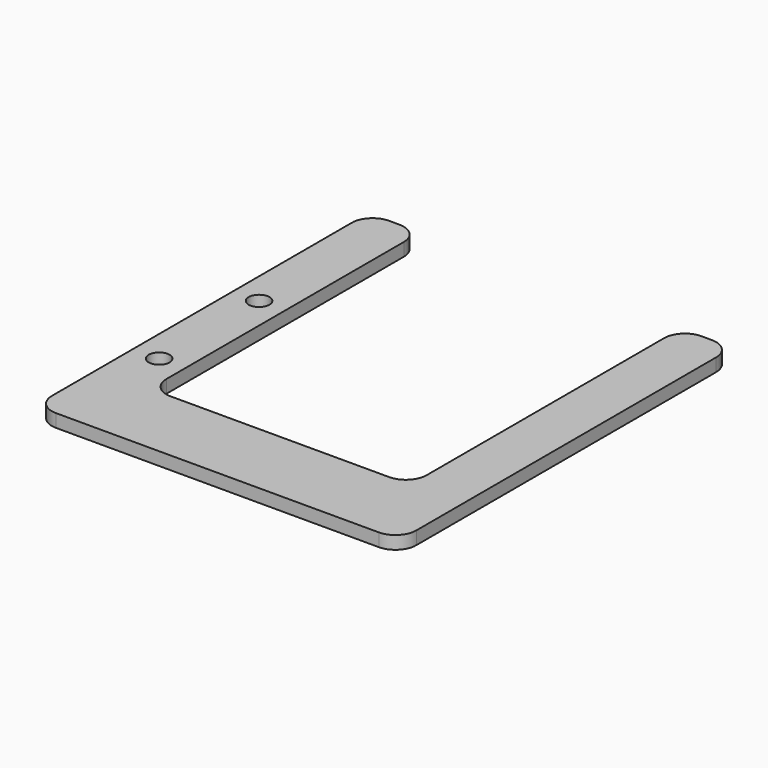
from build123d import *

# Parameters (mm, degrees)
F0_R     = 2.54
F2_DEPTH = 3.175


with BuildPart() as f2:
    # F0 (on Top) → F2 (new body)
    with BuildSketch(Plane.XY):
        with BuildLine():
            Line((-68.58, 71.755), (-71.12, 71.755))
            ThreePointArc((-71.12, 71.755), (-74.712102, 70.267102), (-76.2, 66.675))
            Line((-76.2, 66.675), (-76.2, -10.795))
            Line((-76.2, -10.795), (-76.2, -24.765))
            ThreePointArc((-76.2, -24.765), (-74.712102, -28.357102), (-71.12, -29.845))
            Line((-71.12, -29.845), (7.62, -29.845))
            ThreePointArc((7.62, -29.845), (11.212102, -28.357102), (12.7, -24.765))
            Line((12.7, -24.765), (12.7, -10.795))
            Line((12.7, -10.795), (12.7, 66.675))
            ThreePointArc((12.7, 66.675), (11.212102, 70.267102), (7.62, 71.755))
            Line((7.62, 71.755), (5.08, 71.755))
            ThreePointArc((5.08, 71.755), (1.487898, 70.267102), (0, 66.675))
            Line((0, 66.675), (0, -5.715))
            ThreePointArc((0, -5.715), (-1.487898, -9.307102), (-5.08, -10.795))
            Line((-5.08, -10.795), (-58.42, -10.795))
            ThreePointArc((-58.42, -10.795), (-62.012102, -9.307102), (-63.5, -5.715))
            Line((-63.5, -5.715), (-63.5, 66.675))
            ThreePointArc((-63.5, 66.675), (-64.987898, 70.267102), (-68.58, 71.755))
        make_face()
        with Locations((-69.85, 0)):
            Circle(F0_R, mode=Mode.SUBTRACT)
        with Locations((-69.85, 30.48)):
            Circle(F0_R, mode=Mode.SUBTRACT)
    extrude(amount=F2_DEPTH)


solid = f2.part
